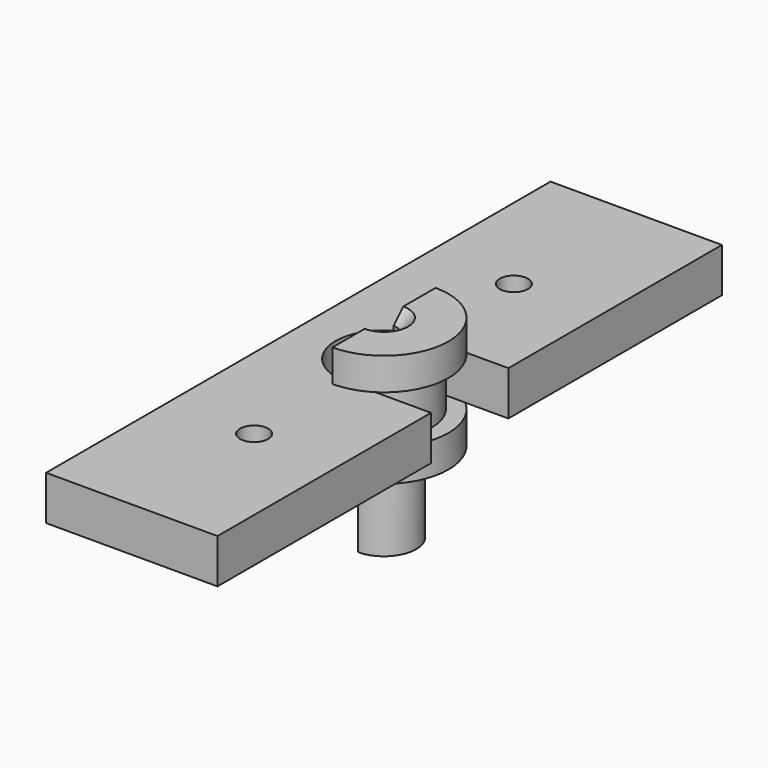
from build123d import *

# Parameters (mm, degrees)
F0_R      = 4
F0_R_2    = 1.5
F1_DEPTH  = 10
F2_R      = 8
F3_DEPTH  = 4
F4_R      = 6
F5_DEPTH  = 6
F6_R      = 8
F7_DEPTH  = 4
F8_DEPTH  = 24.001
F9_SIZE   = 1.5
F10_R     = 1.75
F11_DEPTH = 5.5
F12_SIZE  = 0.5
F13_W     = 9.0406714007
F13_H     = 17.2127164826
F14_DEPTH = 24


with BuildPart() as f1:
    # F0 (on Top) → F1 (new body)
    with BuildSketch(Plane.XY):
        Circle(F0_R)
        Circle(F0_R_2, mode=Mode.SUBTRACT)
        Circle(F0_R_2)
    extrude(amount=F1_DEPTH)

    # F2 (on face) → F3 (join)
    with BuildSketch(Plane.XY.offset(10)):
        Circle(F2_R)
    extrude(amount=F3_DEPTH)

    # F4 (on face) → F5 (join)
    with BuildSketch(Plane.XY.offset(14)):
        Circle(F4_R)
    extrude(amount=F5_DEPTH)

    # F6 (on face) → F7 (join)
    with BuildSketch(Plane.XY.offset(20)):
        Circle(F6_R)
    extrude(amount=F7_DEPTH)

    # F0 (on Top) → F8 (cut, through all)
    with BuildSketch(Plane.XY):
        Circle(F0_R_2)
    extrude(amount=F8_DEPTH, mode=Mode.SUBTRACT)

    # F9
    f9_edges = [f1.edges().sort_by_distance(p)[0] for p in [
        (-1.5, 0, 24),
    ]]
    chamfer(f9_edges, length=F9_SIZE)


with BuildPart() as f11:
    # F10 (on face) → F11 (new body)
    with BuildSketch(Plane.XY.offset(14)):
        with BuildLine():
            Line((-10.6372348964, 39.1267947853), (-10.6372348964, -39.1267947853))
            Line((-10.6372348964, -39.1267947853), (10.6372348964, -39.1267947853))
            Line((10.6372348964, -39.1267947853), (10.6372348964, -6))
            Line((10.6372348964, -6), (5.2915026221, -6))
            ThreePointArc((5.2915026221, -6), (-8, 0), (5.2915026221, 6))
            Line((5.2915026221, 6), (10.6372348964, 6))
            Line((10.6372348964, 6), (10.6372348964, 39.1267947853))
            Line((10.6372348964, 39.1267947853), (-10.6372348964, 39.1267947853))
        make_face()
        with Locations((0, -20.1431717724)):
            Circle(F10_R, mode=Mode.SUBTRACT)
        with Locations((0, 20.1431717724)):
            Circle(F10_R, mode=Mode.SUBTRACT)
        with BuildLine():
            ThreePointArc((5.2915026221, 6), (-8, 0), (5.2915026221, -6))
            Line((5.2915026221, -6), (0, -6))
            ThreePointArc((0, -6), (-6, 0), (0, 6))
            Line((0, 6), (5.2915026221, 6))
        make_face()
    extrude(amount=F11_DEPTH)

    # F12
    f12_edges = [f11.edges().sort_by_distance(p)[0] for p in [
        (-1.75, 20.143172, 14),
        (-1.75, -20.143172, 14),
    ]]
    chamfer(f12_edges, length=F12_SIZE)


with BuildPart() as f14:
    # F13 (on face) → F14 (new body, through all)
    with BuildSketch(Plane.XY.offset(24)):
        with Locations((-4.5203357004, -0.6063582413)):
            Rectangle(F13_W, F13_H)
    extrude(amount=-F14_DEPTH)


with BuildPart() as f1_1:
    add(f1.part)

    # F15: cut F14
    add(f14.part, mode=Mode.SUBTRACT)


solid = Compound([f11.part, f1_1.part])
